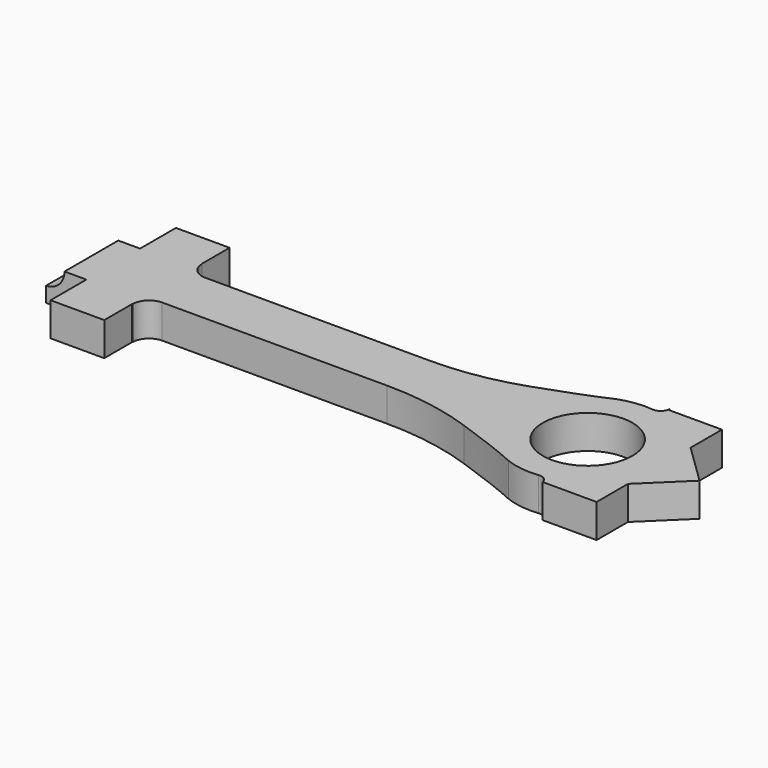
from build123d import *

# Parameters (mm, degrees)
F1_DEPTH = 9.525
F2_R     = 5.2336589489
F3_DEPTH = 25.4


with BuildPart() as f1:
    # F0 (on Top) → F1 (new body)
    with BuildSketch(Plane.XY):
        with BuildLine():
            Line((7.7218987456, 12.310102582), (7.62, 12.310102582))
            Line((7.62, 12.310102582), (7.62, 22.225))
            Line((7.62, 22.225), (-7.62, 22.225))
            Line((-7.62, 22.225), (-7.62, 9.525))
            Line((-7.62, 9.525), (-19.05, 9.525))
            Line((-19.05, 9.525), (-19.05, 0))
            Line((-19.05, 0), (-19.05, -9.525))
            Line((-19.05, -9.525), (-7.62, -9.525))
            Line((-7.62, -9.525), (-7.62, -22.225))
            Line((-7.62, -22.225), (7.62, -22.225))
            Line((7.62, -22.225), (7.62, -12.310102582))
            Line((7.62, -12.310102582), (7.7218987456, -12.310102582))
            ThreePointArc((7.7218987456, -12.310102582), (9.0713316669, -8.995991319), (12.3745044693, -7.62))
            Line((12.3745044693, -7.62), (76.2223307455, -7.62))
            ThreePointArc((76.2223307455, -7.62), (89.0032784798, -8.6995142786), (101.4220945716, -11.907470472))
            add(Edge.make_bspline(
                [(101.4220945716, -11.907470472), (108.8479078103, -14.5096420416), (115.4579135782, -16.9617020129), (119.7392494006, -18.9785115521)],
                knots=[0.2329982419, 0.2329982419, 0.2329982419, 0.2329982419, 0.665918316, 0.665918316, 0.665918316, 0.665918316], degree=3))
            ThreePointArc((119.7392494006, -18.9785115521), (124.4257242361, -20.1562770444), (129.2577777778, -20.1941783568))
            ThreePointArc((129.2577777778, -20.1941783568), (131.0404681386, -20.6690128346), (132.0316072031, -22.225))
            Line((132.0316072031, -22.225), (147.32, -22.225))
            Line((147.32, -22.225), (147.32, -11.1125))
            Line((147.32, -11.1125), (158.75, 0))
            Line((158.75, 0), (147.32, 11.1125))
            Line((147.32, 11.1125), (147.32, 22.225))
            Line((147.32, 22.225), (132.08, 22.225))
            Line((132.08, 22.225), (132.08, 22.7184506514))
            ThreePointArc((132.08, 22.7184506514), (131.2333333333, 20.8252464304), (129.2577777778, 20.1941783568))
            ThreePointArc((129.2577777778, 20.1941783568), (124.4257242361, 20.1562770444), (119.7392494006, 18.9785115521))
            add(Edge.make_bspline(
                [(101.4220945716, 11.907470472), (108.8479078103, 14.5096420416), (115.4579135782, 16.9617020129), (119.7392494006, 18.9785115521)],
                knots=[0.2329982419, 0.2329982419, 0.2329982419, 0.2329982419, 0.665918316, 0.665918316, 0.665918316, 0.665918316], degree=3))
            ThreePointArc((101.4220945716, 11.907470472), (89.0032784798, 8.6995142786), (76.2223307455, 7.62))
            Line((76.2223307455, 7.62), (12.3745044693, 7.62))
            ThreePointArc((12.3745044693, 7.62), (9.0713316669, 8.995991319), (7.7218987456, 12.310102582))
        make_face()
        with BuildLine():
            ThreePointArc((114.3, 0), (127, 12.7), (139.7, 0))
            ThreePointArc((139.7, 0), (127, -12.7), (114.3, 0))
        make_face(mode=Mode.SUBTRACT)
    extrude(amount=F1_DEPTH)

    # F2 (on face) → F3 (cut)
    with BuildSketch(Plane.XZ.offset(9.525)):
        with Locations((-19.05, 9.525)):
            Circle(F2_R)
    extrude(amount=-F3_DEPTH, mode=Mode.SUBTRACT)


solid = f1.part
